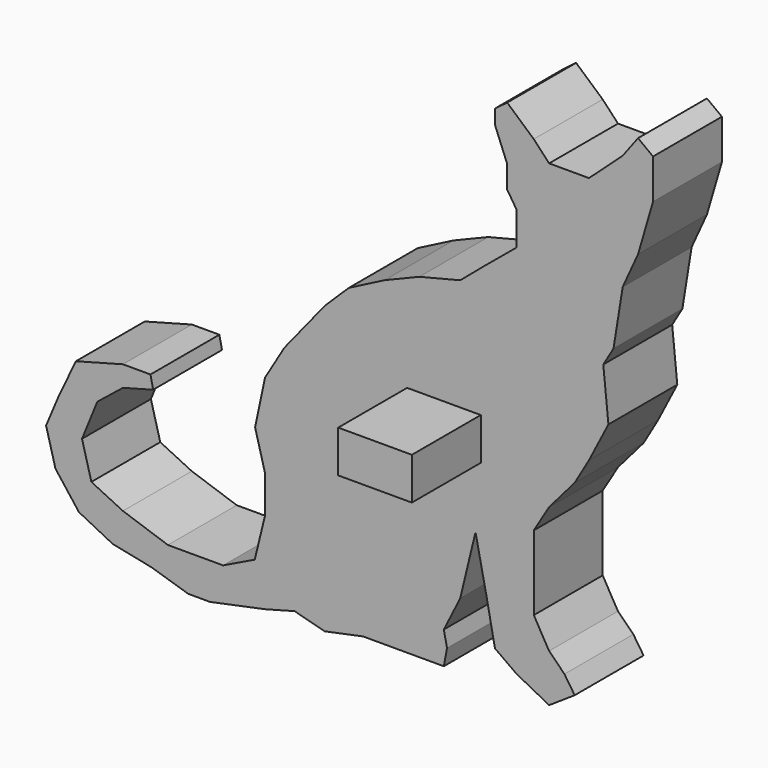
from build123d import *

# Parameters (mm, degrees)
F1_DEPTH = 12.7
F2_W     = 10.860083
F2_H     = 6.205762
F3_DEPTH = 12.7


with BuildPart() as f1:
    # F0 (on Front) → F1 (new body)
    with BuildSketch(Plane.XZ):
        Polygon((10.930421, 22.717176), (4.900595, 21.209723), (-0.224752, 19.099282), (-5.500847, 16.385859), (-9.036702, 12.918709), (-14.997827, 5.532174), (-17.861986, 0.708314), (-19.316724, -6.225982), (-17.861986, -11.652825), (-17.861986, -17.230413), (-19.369447, -23.410983), (-24.038606, -25.672167), (-32.182822, -25.672167), (-38.807783, -23.410983), (-43.465309, -21.149799), (-44.845456, -16.001211), (-42.584272, -10.446859), (-38.807783, -7.418466), (-34.359269, -6.225982), (-34.745501, -4.365046), (-38.807783, -4.365046), (-45.749934, -6.225982), (-48.312606, -11.652825), (-50.144989, -16.001211), (-48.764841, -21.149799), (-45.297699, -25.672167), (-40.323088, -28.184597), (-34.594753, -29.356468), (-29.167914, -31.04079), (-25.977362, -31.04079), (-24.038606, -30.638407), (-17.861986, -29.356468), (-13.490366, -28.184597), (-9.036702, -29.356468), (-3.390411, -28.184597), (1.584193, -28.184597), (8.518493, -28.184597), (8.987795, -25.672167), (8.518493, -23.410983), (10.930421, -18.587123), (13.191605, -9.240893), (14.849806, -17.230413), (16.055772, -23.410983), (19.221431, -25.672167), (24.045291, -28.184597), (27.813932, -25.672167), (26.306475, -23.410983), (24.045291, -21.149799), (21.784107, -17.230413), (21.784107, -12.105062), (21.784107, -6.225982), (24.045291, -2.457341), (27.813932, 1.91428), (29.924371, 5.532174), (32.788538, 11.109764), (32.034809, 18.647043), (33.542265, 21.209723), (34.898975, 29.651476), (37.16016, 34.62608), (39.371106, 42.163363), (39.371106, 48.042437), (37.16016, 49.700646), (34.898975, 46.685731), (29.924371, 42.163363), (27.813932, 42.163363), (24.045291, 42.163363), (21.784107, 44.575287), (17.864721, 48.042437), (16.055772, 46.685731), (16.055772, 44.575287), (17.864721, 40.052927), (17.864721, 36.736517), (19.221431, 34.62608), (19.221431, 29.651476), (14.849806, 26.033579), align=None)
        Polygon((10.930421, 22.717176), (4.900595, 21.209723), (-0.224752, 19.099282), (-5.500847, 16.385859), (-9.036702, 12.918709), (-14.997827, 5.532174), (-17.861986, 0.708314), (-19.316724, -6.225982), (-17.861986, -11.652825), (-17.861986, -17.230413), (-19.369447, -23.410983), (-24.038606, -25.672167), (-32.182822, -25.672167), (-38.807783, -23.410983), (-43.465309, -21.149799), (-44.845456, -16.001211), (-42.584272, -10.446859), (-38.807783, -7.418466), (-34.359269, -6.225982), (-34.745501, -4.365046), (-38.807783, -4.365046), (-45.749934, -6.225982), (-48.312606, -11.652825), (-50.144989, -16.001211), (-48.764841, -21.149799), (-45.297699, -25.672167), (-40.323088, -28.184597), (-34.594753, -29.356468), (-29.167914, -31.04079), (-25.977362, -31.04079), (-24.038606, -30.638407), (-17.861986, -29.356468), (-13.490366, -28.184597), (-9.036702, -29.356468), (-3.390411, -28.184597), (1.584193, -28.184597), (8.518493, -28.184597), (8.987795, -25.672167), (8.518493, -23.410983), (10.930421, -18.587123), (13.191605, -9.240893), (14.849806, -17.230413), (16.055772, -23.410983), (19.221431, -25.672167), (24.045291, -28.184597), (27.813932, -25.672167), (26.306475, -23.410983), (24.045291, -21.149799), (21.784107, -17.230413), (21.784107, -12.105062), (21.784107, -6.225982), (24.045291, -2.457341), (27.813932, 1.91428), (29.924371, 5.532174), (32.788538, 11.109764), (32.034809, 18.647043), (33.542265, 21.209723), (34.898975, 29.651476), (37.16016, 34.62608), (39.371106, 42.163363), (39.371106, 48.042437), (37.16016, 49.700646), (34.898975, 46.685731), (29.924371, 42.163363), (27.813932, 42.163363), (24.045291, 42.163363), (21.784107, 44.575287), (17.864721, 48.042437), (16.055772, 46.685731), (16.055772, 44.575287), (17.864721, 40.052927), (17.864721, 36.736517), (19.221431, 34.62608), (19.221431, 29.651476), (14.849806, 26.033579), align=None)
    extrude(amount=F1_DEPTH)

    # F2 (on face) → F3 (join)
    with BuildSketch(Plane.XZ.offset(12.7)):
        with Locations((8.532922, 3.102881)):
            Rectangle(F2_W, F2_H)
    extrude(amount=F3_DEPTH)


solid = f1.part
